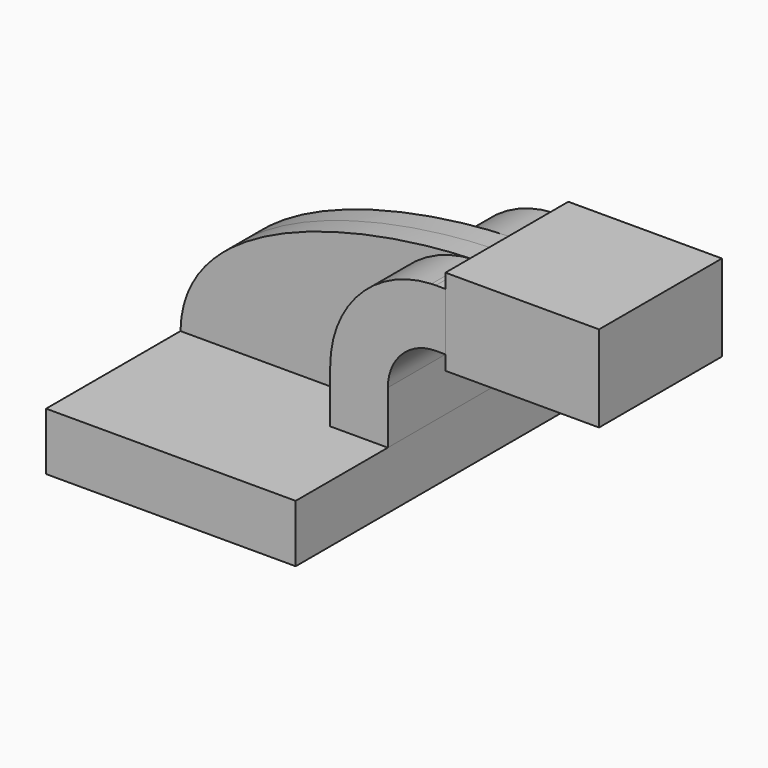
from build123d import *

# Parameters (mm, degrees)
F1_DEPTH = 63.5
F2_DEPTH = 25.4
F0_W     = 28.9387143025
F0_H     = 4.7498
F0_H_2   = 19.05
F0_H_3   = 4.7752
F3_DEPTH = 25.4
F4_DEPTH = 7.9375


with BuildPart() as f1:
    # F0 (on Front) → F1 (new body, symmetric)
    with BuildSketch(Plane.XZ):
        Polygon((22.225, 9.525), (-41.275, 9.525), (-41.275, -9.525), (41.275, -9.525), (41.275, 9.525), align=None)
    extrude(amount=F1_DEPTH, both=True)


with BuildPart() as f2:
    # F0 (on Front) → F2 (new body, symmetric)
    with BuildSketch(Plane.XZ):
        with BuildLine():
            Line((22.225, 27.0002), (22.225, 9.525))
            Line((22.225, 9.525), (41.275, 9.525))
            Line((41.275, 9.525), (41.275, 27.0002))
            ThreePointArc((41.275, 27.0002), (45.9246798487, 38.2255201513), (57.15, 42.8752))
            Line((57.15, 42.8752), (60.325, 42.8752))
            Line((60.325, 42.8752), (60.325, 61.9252))
            Line((60.325, 61.9252), (57.15, 61.9252))
            add(Edge.make_bspline(
                [(55.7073045323, 61.8953895651), (56.1929570758, 61.9076703241), (56.6739277433, 61.9175972221), (57.15, 61.9252)],
                knots=[110.0040076177, 110.0040076177, 110.0040076177, 110.0040076177, 111.5045361635, 111.5045361635, 111.5045361635, 111.5045361635], degree=3))
            ThreePointArc((55.7073045323, 61.8953895651), (31.9493872673, 51.1804552281), (22.225, 27.0002))
        make_face()
    extrude(amount=F2_DEPTH, both=True)


with BuildPart() as f3:
    # F0 (on Front) → F3 (new body, symmetric)
    with BuildSketch(Plane.XZ):
        with Locations((74.7943571512, 64.3001)):
            Rectangle(F0_W, F0_H)
        with Locations((74.7943571512, 52.4002)):
            Rectangle(F0_W, F0_H_2)
        Polygon((89.2637143025, 66.675), (89.2637143025, 61.9252), (89.2637143025, 42.8752), (89.2637143025, 38.1), (111.125, 38.1), (111.125, 66.675), align=None)
        with Locations((74.7943571512, 40.4876)):
            Rectangle(F0_W, F0_H_3)
    extrude(amount=F3_DEPTH, both=True)


with BuildPart() as f4:
    # F0 (on Front) → F4 (new body, symmetric)
    with BuildSketch(Plane.XZ):
        with BuildLine():
            add(Edge.make_bspline(
                [(-41.275, 9.525), (-40.661426945, 47.4442333793), (20.104032448, 60.995084997), (55.7073045323, 61.8953895651)],
                knots=[0, 0, 0, 0, 110.0040076177, 110.0040076177, 110.0040076177, 110.0040076177], degree=3))
            Line((-41.275, 9.525), (22.225, 9.525))
            Line((22.225, 9.525), (22.225, 27.0002))
            ThreePointArc((22.225, 27.0002), (31.9493872673, 51.1804552281), (55.7073045323, 61.8953895651))
        make_face()
    extrude(amount=F4_DEPTH, both=True)


solid = Compound([f1.part, f2.part, f3.part, f4.part])
